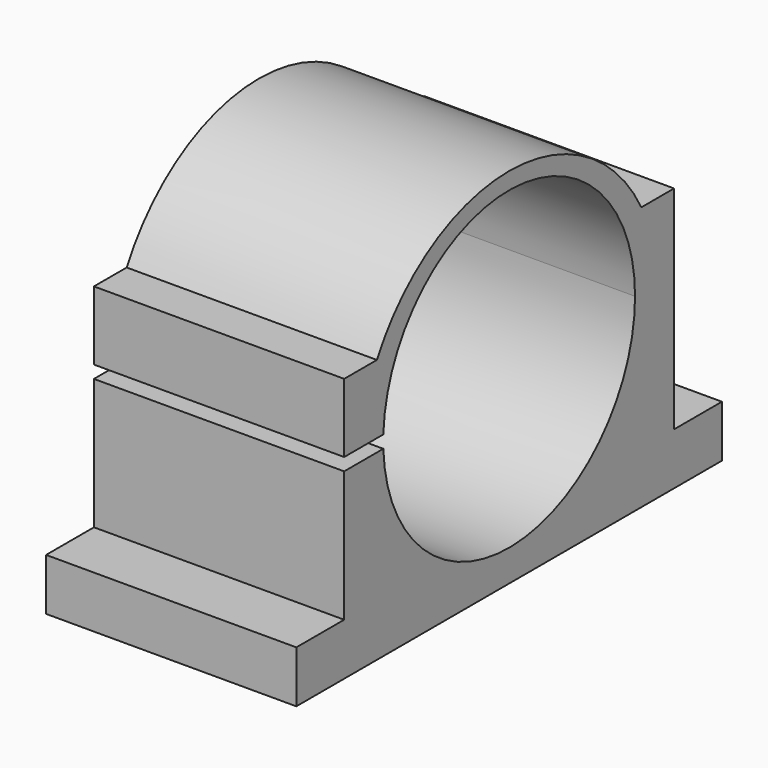
from build123d import *

# Parameters (mm, degrees)
SKETCH_W        = 169
SKETCH_H        = 16.5
SKETCH_W_2      = 131
SKETCH_H_2      = 150
PAD_DEPTH       = 79.5
SKETCH001_R     = 50
POCKET_DEPTH    = 79.501
POCKET001_DEPTH = 79.501
SKETCH003_W     = 30
SKETCH003_H     = 4
POCKET002_DEPTH = 79.501


with BuildPart() as part:
    # Sketch → Pad (new body)
    with BuildSketch(Plane.YZ):
        with Locations((84.5, 8.25)):
            Rectangle(SKETCH_W, SKETCH_H)
        with Locations((84.5, 91.5)):
            Rectangle(SKETCH_W_2, SKETCH_H_2)
    extrude(amount=PAD_DEPTH)

    # Sketch001 (on Face10 of Pad) → Pocket (cut, through all)
    with BuildSketch(Plane.YZ.offset(79.5)):
        with Locations((84.5, 60)):
            Circle(SKETCH001_R)
    extrude(amount=-POCKET_DEPTH, mode=Mode.SUBTRACT)

    # Sketch002 (on Face5 of Pocket) → Pocket001 (cut, through all)
    with BuildSketch(Plane.YZ.offset(79.5)):
        with BuildLine():
            Line((19, 83.870659), (32, 83.870659))
            ThreePointArc((137, 83.870652), (84.500002, 115.370656), (32, 83.870659))
            Line((150, 83.870652), (137, 83.870652))
            Line((183.643631, 183.574966), (150, 83.870652))
            Line((-15.737751, 179.863068), (183.643631, 183.574966))
            Line((19, 83.870659), (-15.737751, 179.863068))
        make_face()
    extrude(amount=-POCKET001_DEPTH, mode=Mode.SUBTRACT)

    # Sketch003 (on Face4 of Pocket001) → Pocket002 (cut, through all)
    with BuildSketch(Plane.YZ.offset(79.5)):
        with Locations((34, 60)):
            Rectangle(SKETCH003_W, SKETCH003_H)
    extrude(amount=-POCKET002_DEPTH, mode=Mode.SUBTRACT)


solid = part.part
